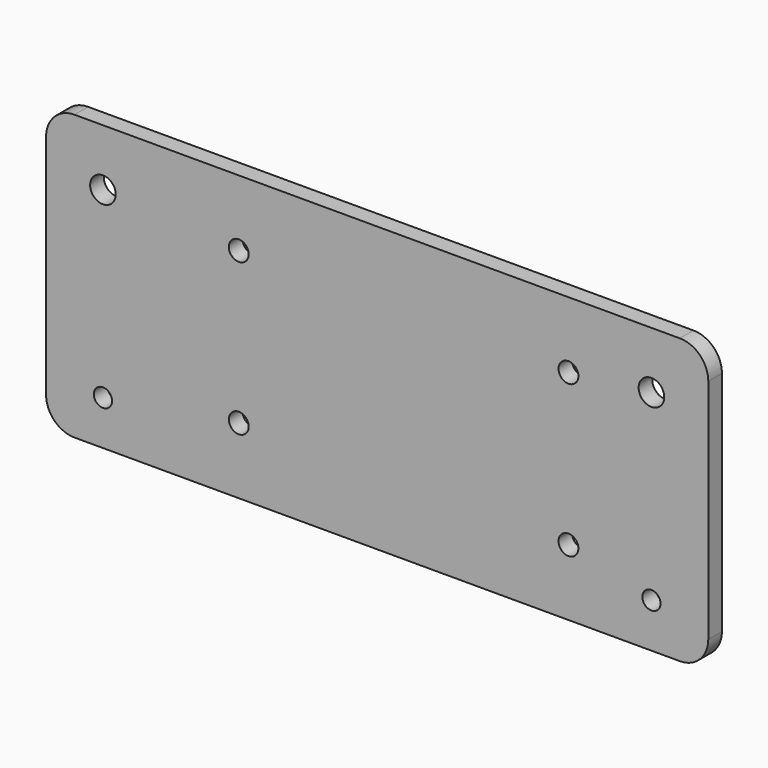
from build123d import *

# Parameters (mm, degrees)
SKETCH_W        = 116.5
SKETCH_H        = 50
SKETCH_R        = 1.6
PAD_DEPTH       = 3
PAD001_DEPTH    = 50
PAD001_FACE18_R = 1.6
POCKET_DEPTH    = 255.213436
SKETCH002_W     = 9.5
SKETCH002_H     = 9.5
POCKET001_DEPTH = 1.5
SKETCH003_R     = 1.75
POCKET002_DEPTH = 5
POCKET003_DEPTH = 21
SKETCH004_R     = 1.6
PAD002_DEPTH    = 3
SKETCH005_R     = 2.25
POCKET004_DEPTH = 256.713436
FILLET_R        = 5


with BuildPart() as part:
    # Sketch → Pad (new body)
    with BuildSketch(Plane.XZ):
        Rectangle(SKETCH_W, SKETCH_H)
        with Locations((-48.25, 17.186)):
            Circle(SKETCH_R, mode=Mode.SUBTRACT)
        with Locations((-48.25, -17.186)):
            Circle(SKETCH_R, mode=Mode.SUBTRACT)
        with Locations((48.25, -17.186)):
            Circle(SKETCH_R, mode=Mode.SUBTRACT)
        with Locations((48.25, 17.186)):
            Circle(SKETCH_R, mode=Mode.SUBTRACT)
    extrude(amount=PAD_DEPTH)

    # Sketch001 (on Face1 of Pad) → Pad001 (join)
    with BuildSketch(Plane(origin=(0, 0, 25), x_dir=(-1, 0, 0), z_dir=(0, 0, 1))):
        Polygon((-51.2, -1.5), (-45.3, -1.5), (-43.5, 0), (-53, 0), align=None)
    pad001 = extrude(amount=-PAD001_DEPTH)

    # Pad001 Face18 → Pocket (cut, through all)
    with BuildSketch(Plane(origin=(48.25, 0, -17.186), x_dir=(-1, 0, 0), z_dir=(0, -1, 0))):
        Circle(PAD001_FACE18_R)
    pocket = extrude(amount=-POCKET_DEPTH, mode=Mode.SUBTRACT)

    # Sketch002 (on Face12 of Pocket) → Pocket001 (cut)
    with BuildSketch(Plane(origin=(0, 1.5, 0), x_dir=(1, 0, 0), z_dir=(0, 1, 0))):
        with Locations((48.25, 17.186)):
            Rectangle(SKETCH002_W, SKETCH002_H)
        with Locations((48.25, -17.186)):
            Rectangle(SKETCH002_W, SKETCH002_H)
    pocket001 = extrude(amount=-POCKET001_DEPTH, mode=Mode.SUBTRACT)

    # Mirrored: Pad001, Pocket, Pocket001 across YZ
    add(pad001.mirror(Plane.YZ))
    add(pocket.mirror(Plane.YZ), mode=Mode.SUBTRACT)
    add(pocket001.mirror(Plane.YZ), mode=Mode.SUBTRACT)

    # Sketch003 (on Face6 of Mirrored) → Pocket002 (cut)
    with BuildSketch(Plane(origin=(0, 0, 0), x_dir=(1, 0, 0), z_dir=(0, 1, 0))):
        with Locations((-24.35, -13.35)):
            Circle(SKETCH003_R)
        with Locations((33.65, -13.35)):
            Circle(SKETCH003_R)
        with Locations((33.65, 13.35)):
            Circle(SKETCH003_R)
        with Locations((-24.35, 13.35)):
            Circle(SKETCH003_R)
    extrude(amount=-POCKET002_DEPTH, mode=Mode.SUBTRACT)

    # Pocket002 Face5 → Pocket003 (cut)
    with BuildSketch(Plane(origin=(-48.25, 0.691558, 25), x_dir=(0, 1, 0), z_dir=(0, 0, 1))):
        Polygon((0.808442, -2.95), (0.808442, 2.95), (-0.691558, 4.75), (-0.691558, -4.75), align=None)
    pocket003 = extrude(amount=-POCKET003_DEPTH, mode=Mode.SUBTRACT)

    # Sketch004 (on Face11 of Pocket003) → Pad002 (join)
    with BuildSketch(Plane(origin=(0, 0, 0), x_dir=(1, 0, 0), z_dir=(0, 1, 0))):
        with Locations((-48.25, -17.186)):
            Circle(SKETCH004_R)
    pad002 = extrude(amount=-PAD002_DEPTH)

    # Sketch005 (on Face6 of Pad002) → Pocket004 (cut, through all)
    with BuildSketch(Plane(origin=(0, 0, 0), x_dir=(1, 0, 0), z_dir=(0, 1, 0))):
        with Locations((-48.25, -15)):
            Circle(SKETCH005_R)
    pocket004 = extrude(amount=-POCKET004_DEPTH, mode=Mode.SUBTRACT)

    # Mirrored001: Pocket003, Pad002, Pocket004 across YZ
    add(pocket003.mirror(Plane.YZ), mode=Mode.SUBTRACT)
    add(pad002.mirror(Plane.YZ))
    add(pocket004.mirror(Plane.YZ), mode=Mode.SUBTRACT)

    # Fillet
    fillet_edges = [part.edges().sort_by_distance(p)[0] for p in [
        (58.25, -1.5, 25),
        (58.25, -1.5, -25),
        (-58.25, -1.5, 25),
        (-58.25, -1.5, -25),
    ]]
    fillet(fillet_edges, radius=FILLET_R)


solid = part.part
